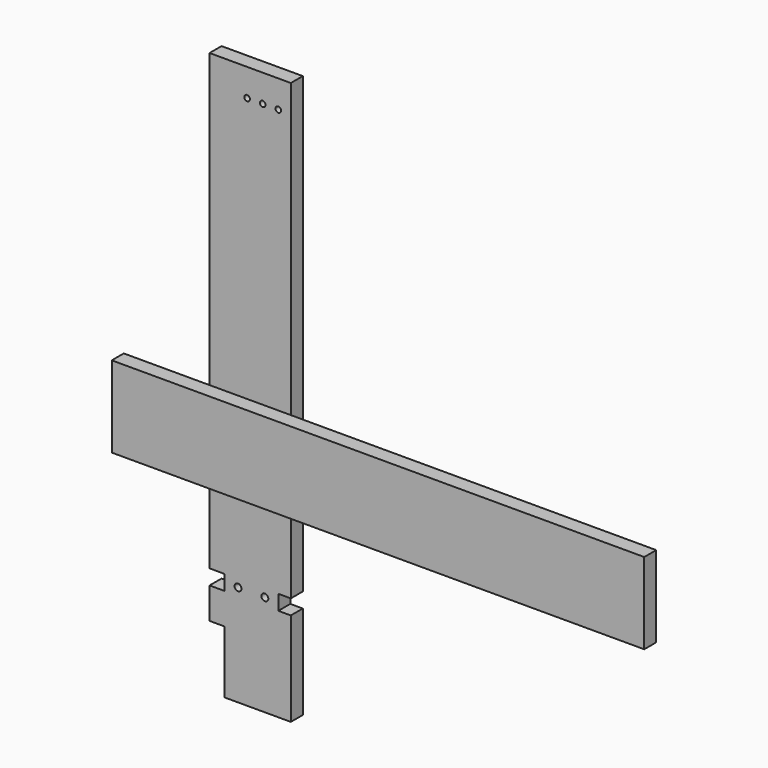
from build123d import *

# Parameters (mm, degrees)
F0_R     = 2.75
F0_R_2   = 2.25
F1_DEPTH = 12
F2_W     = 12
F2_H     = 65
F3_DEPTH = 426


with BuildPart() as f1:
    # F0 (on Front) → F1 (new body)
    with BuildSketch(Plane.XZ):
        Polygon((32.5, 225), (-32.5, 225), (-32.5, -138), (-20.5, -138), (-20.5, -150), (-32.5, -150), (-32.5, -175), (-20.5, -175), (-20.5, -225), (32.5, -225), (32.5, -150), (22.5, -150), (22.5, -138), (32.5, -138), align=None)
        with Locations((-9.75, -144)):
            Circle(F0_R, mode=Mode.SUBTRACT)
        with Locations((11.75, -144)):
            Circle(F0_R, mode=Mode.SUBTRACT)
        with Locations((-2.5, 203)):
            Circle(F0_R_2, mode=Mode.SUBTRACT)
        with Locations((10, 203)):
            Circle(F0_R_2, mode=Mode.SUBTRACT)
        with Locations((22.5, 203)):
            Circle(F0_R_2, mode=Mode.SUBTRACT)
    extrude(amount=-F1_DEPTH)


with BuildPart() as f3:
    # F2 (on Right) → F3 (new body)
    with BuildSketch(Plane.YZ):
        with Locations((-132.42542, 42.883325)):
            Rectangle(F2_W, F2_H)
    extrude(amount=F3_DEPTH)


solid = Compound([f1.part, f3.part])
